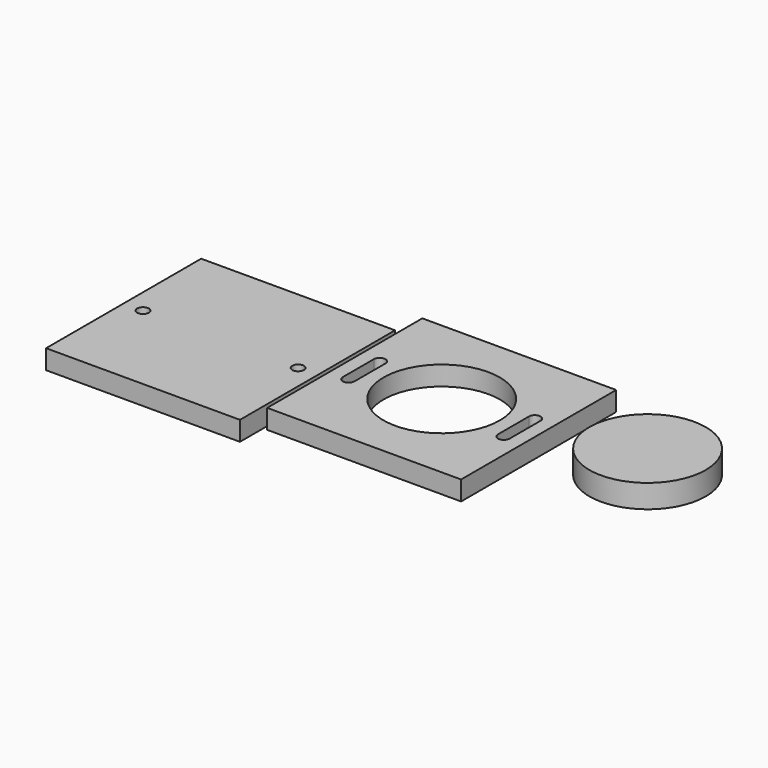
from build123d import *

# Parameters (mm, degrees)
F0_W     = 100
F0_H     = 100
F0_R     = 3
F1_DEPTH = 10
F2_W     = 100
F2_H     = 100
F2_R     = 30
F3_DEPTH = 10
F4_R     = 30
F5_DEPTH = 12


with BuildPart() as f1:
    # F0 (on Top) → F1 (new body)
    with BuildSketch(Plane.XY):
        Rectangle(F0_W, F0_H)
        with Locations((-40, 0)):
            Circle(F0_R, mode=Mode.SUBTRACT)
        with Locations((40, 0)):
            Circle(F0_R, mode=Mode.SUBTRACT)
    extrude(amount=F1_DEPTH)


with BuildPart() as f3:
    # F2 (on face) → F3 (new body)
    with BuildSketch(Plane.XY.offset(10)):
        with Locations((114.058882, 0)):
            Rectangle(F2_W, F2_H)
        with BuildLine():
            Line((71.058882, -10), (71.058882, 10))
            ThreePointArc((71.058882, 10), (74.058882, 13), (77.058882, 10))
            Line((77.058882, 10), (77.058882, -10))
            ThreePointArc((77.058882, -10), (74.058882, -13), (71.058882, -10))
        make_face(mode=Mode.SUBTRACT)
        with Locations((114.058882, 0)):
            Circle(F2_R, mode=Mode.SUBTRACT)
        with BuildLine():
            Line((151.058882, -10), (151.058882, 10))
            ThreePointArc((151.058882, 10), (154.058882, 13), (157.058882, 10))
            Line((157.058882, 10), (157.058882, -10))
            ThreePointArc((157.058882, -10), (154.058882, -13), (151.058882, -10))
        make_face(mode=Mode.SUBTRACT)
    extrude(amount=F3_DEPTH)


with BuildPart() as f5:
    # F4 (on face) → F5 (new body)
    with BuildSketch(Plane.XY.offset(20)):
        with Locations((220.240012, 0)):
            Circle(F4_R)
    extrude(amount=F5_DEPTH)


solid = Compound([f1.part, f3.part, f5.part])
